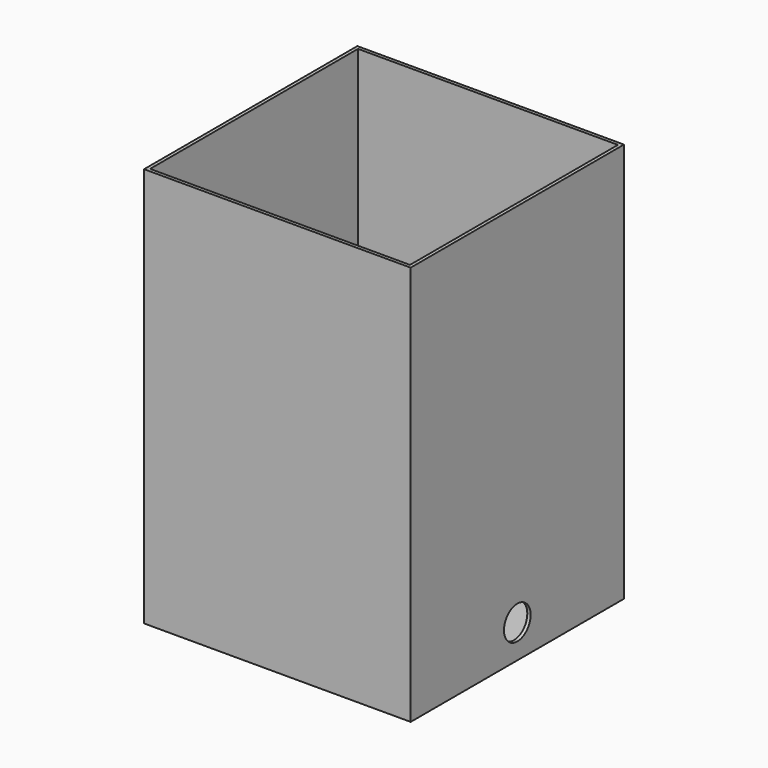
from build123d import *

# Parameters (mm, degrees)
F0_W     = 400
F0_H     = 400
F1_DEPTH = 600
F2_T     = -5
F3_R     = 25
F4_DEPTH = 30


with BuildPart() as f1:
    # F0 (on Top) → F1 (new body)
    with BuildSketch(Plane.XY):
        with Locations((67.481734, 8.544586)):
            Rectangle(F0_W, F0_H)
    extrude(amount=-F1_DEPTH)

    # F2
    f2_openings = [f1.faces().sort_by_distance(p)[0] for p in [
        (67.481734, 8.544586, 0),
    ]]
    offset(amount=F2_T, openings=f2_openings)

    # F3 (on face) → F4 (cut)
    with BuildSketch(Plane.YZ.offset(267.481734)):
        with Locations((8.544586, -550)):
            Circle(F3_R)
    extrude(amount=-F4_DEPTH, mode=Mode.SUBTRACT)


solid = f1.part
